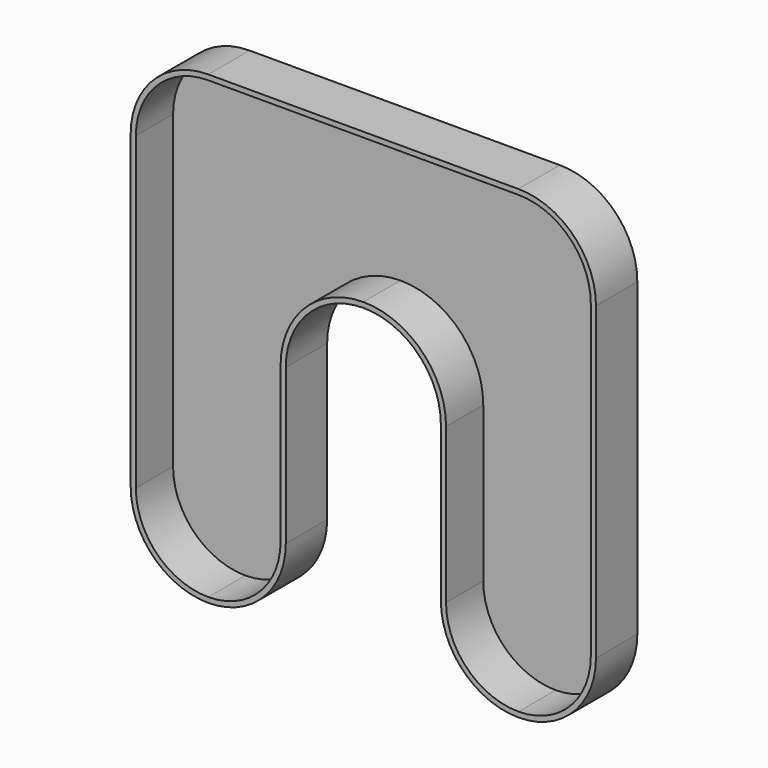
from build123d import *

# Parameters (mm, degrees)
F1_DEPTH = 10
F2_T     = -1


with BuildPart() as f1:
    # F0 (on Front) → F1 (new body)
    with BuildSketch(Plane.XZ):
        with BuildLine():
            Line((75, 0), (15, 0))
            ThreePointArc((15, 0), (4.393398, -4.393398), (0, -15))
            Line((0, -15), (0, -75))
            ThreePointArc((0, -75), (4.393398, -85.606602), (15, -90))
            ThreePointArc((15, -90), (25.606602, -85.606602), (30, -75))
            Line((30, -75), (30, -45))
            ThreePointArc((30, -45), (34.393398, -34.393398), (45, -30))
            ThreePointArc((45, -30), (55.606602, -34.393398), (60, -45))
            Line((60, -45), (60, -75))
            ThreePointArc((60, -75), (64.393398, -85.606602), (75, -90))
            ThreePointArc((75, -90), (85.606602, -85.606602), (90, -75))
            Line((90, -75), (90, -15))
            ThreePointArc((90, -15), (85.606602, -4.393398), (75, 0))
        make_face()
    extrude(amount=F1_DEPTH)

    # F2
    f2_openings = [f1.faces().sort_by_distance(p)[0] for p in [
        (45, -10, -1.272792),
    ]]
    offset(amount=F2_T, openings=f2_openings)


solid = f1.part
